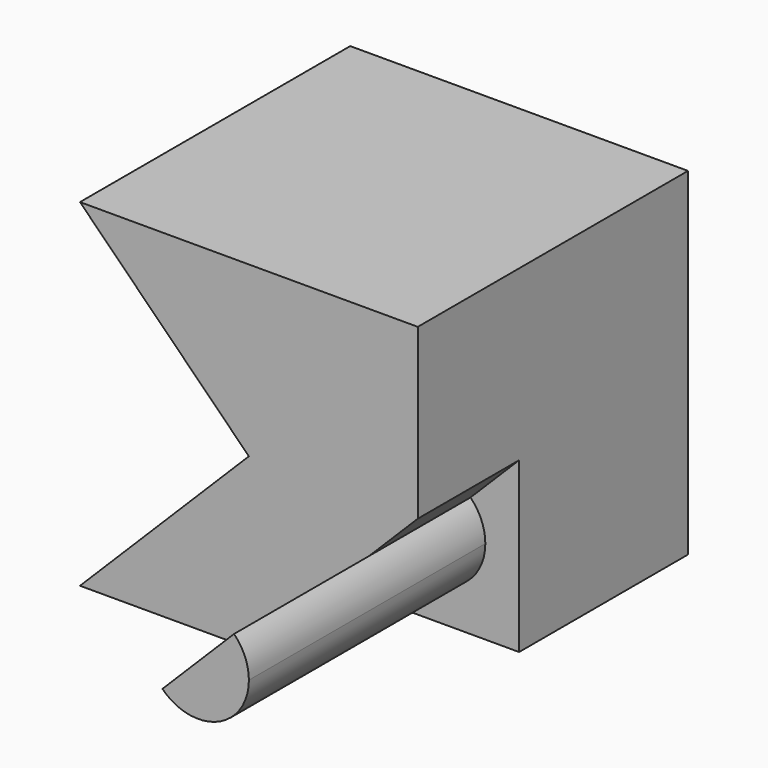
from build123d import *

# Parameters (mm, degrees)
F1_DEPTH = 40
F2_DEPTH = 25
F3_DEPTH = 60


with BuildPart() as f1:
    # F0 (on Front) → F1 (new body)
    with BuildSketch(Plane.XZ):
        with BuildLine():
            Line((20, 20), (0, 0))
            Line((0, 0), (20, 0))
            Line((20, 0), (25.7573593129, 5.7573593129))
            ThreePointArc((25.7573593129, 5.7573593129), (25.7573593129, 14.2426406871), (34.2426406871, 14.2426406871))
            Line((34.2426406871, 14.2426406871), (40, 20))
            Line((40, 20), (40, 40))
            Line((40, 40), (0, 40))
            Line((0, 40), (20, 20))
        make_face()
        with BuildLine():
            ThreePointArc((34.2426406871, 14.2426406871), (25.7573593129, 14.2426406871), (25.7573593129, 5.7573593129))
            Line((25.7573593129, 5.7573593129), (34.2426406871, 14.2426406871))
        make_face()
    extrude(amount=F1_DEPTH)

    # F0 (on Front) → F2 (join)
    with BuildSketch(Plane.XZ):
        with BuildLine():
            Line((25.7573593129, 5.7573593129), (20, 0))
            Line((20, 0), (40, 0))
            Line((40, 0), (40, 20))
            Line((40, 20), (34.2426406871, 14.2426406871))
            ThreePointArc((34.2426406871, 14.2426406871), (35.5432771951, 12.2961005942), (36, 10))
            ThreePointArc((36, 10), (32.2961005942, 4.4567228049), (25.7573593129, 5.7573593129))
        make_face()
    extrude(amount=F2_DEPTH)

    # F0 (on Front) → F3 (join)
    with BuildSketch(Plane.XZ):
        with BuildLine():
            Line((34.2426406871, 14.2426406871), (25.7573593129, 5.7573593129))
            ThreePointArc((25.7573593129, 5.7573593129), (32.2961005942, 4.4567228049), (36, 10))
            ThreePointArc((36, 10), (35.5432771951, 12.2961005942), (34.2426406871, 14.2426406871))
        make_face()
    extrude(amount=F3_DEPTH)


solid = f1.part
